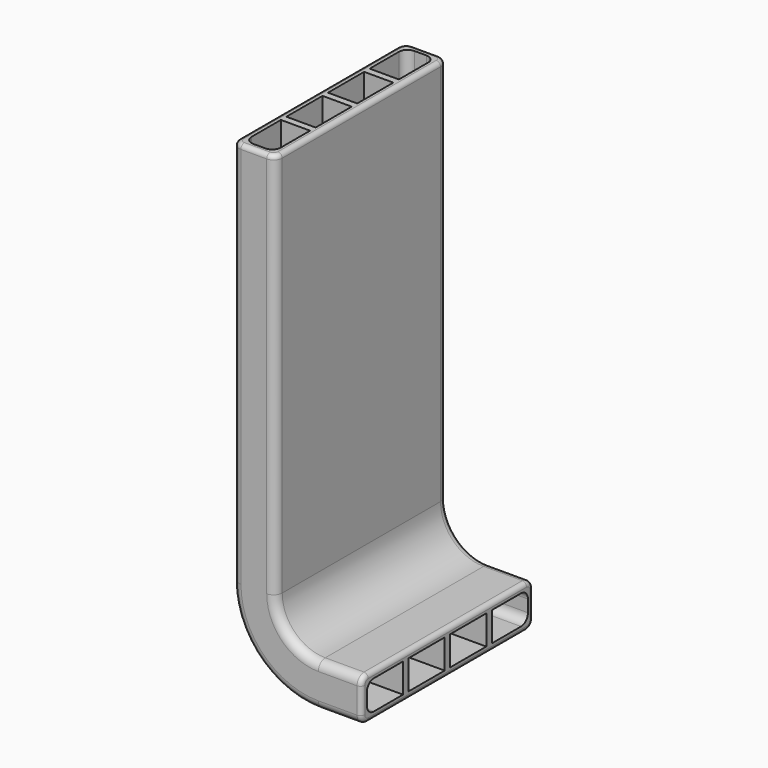
from build123d import *

# Parameters (mm, degrees)
SKETCH_W    = 50
SKETCH_H    = 10
SKETCH_W_2  = 10.5
SKETCH_H_2  = 6.8
FILLET_R    = 2
FILLET001_R = 2
FILLET002_R = 2
FILLET003_R = 2
FILLET004_R = 1
FILLET005_R = 1


with BuildPart() as part:
    # AdditivePipe: sweep along a path in Sketch001
    with BuildLine(Plane.XZ) as additivepipe_path:
        Line((0, 0), (-10, 0))
        ThreePointArc((-10, 0), (-24.142136, 5.857864), (-30, 20))
        Line((-30, 20), (-30, 110))
    # Sketch → AdditivePipe (sweep)
    with BuildSketch(Plane.YZ):
        with Locations((0, 5)):
            Rectangle(SKETCH_W, SKETCH_H)
        with Locations((-18.15, 5)):
            Rectangle(SKETCH_W_2, SKETCH_H_2, mode=Mode.SUBTRACT)
        with Locations((-6.05, 5)):
            Rectangle(SKETCH_W_2, SKETCH_H_2, mode=Mode.SUBTRACT)
        with Locations((6.05, 5)):
            Rectangle(SKETCH_W_2, SKETCH_H_2, mode=Mode.SUBTRACT)
        with Locations((18.15, 5)):
            Rectangle(SKETCH_W_2, SKETCH_H_2, mode=Mode.SUBTRACT)
    sweep(path=additivepipe_path.line)

    # Fillet
    fillet_edges = [part.edges().sort_by_distance(p)[0] for p in [
        (-20, -25, 65),
        (-17.071068, -25, 12.928932),
        (-5, -25, 10),
        (-20, 25, 65),
        (-17.071068, 25, 12.928932),
        (-5, 25, 10),
    ]]
    fillet(fillet_edges, radius=FILLET_R)

    # Fillet001
    fillet001_edges = [part.edges().sort_by_distance(p)[0] for p in [
        (-5, 25, 0),
        (-24.142136, 25, 5.857864),
        (-30, 25, 65),
        (-30, -25, 65),
        (-24.142136, -25, 5.857864),
        (-5, -25, 0),
    ]]
    fillet(fillet001_edges, radius=FILLET001_R)

    # Fillet002
    fillet002_edges = [part.edges().sort_by_distance(p)[0] for p in [
        (-28.4, -23.4, 65),
        (-21.6, -23.4, 65),
        (-23.010765, -23.4, 6.989235),
        (-18.202439, -23.4, 11.797561),
        (-5, -23.4, 8.4),
        (-5, -23.4, 1.6),
    ]]
    fillet(fillet002_edges, radius=FILLET002_R)

    # Fillet003
    fillet003_edges = [part.edges().sort_by_distance(p)[0] for p in [
        (-28.4, 23.4, 65),
        (-21.6, 23.4, 65),
        (-23.010765, 23.4, 6.989235),
        (-18.202439, 23.4, 11.797561),
        (-5, 23.4, 8.4),
        (-5, 23.4, 1.6),
    ]]
    fillet(fillet003_edges, radius=FILLET003_R)

    # Fillet004
    fillet004_edges = [part.edges().sort_by_distance(p)[0] for p in [
        (0, 0, 10),
        (0, -24.414214, 9.414214),
        (0, -25, 5),
        (0, -24.414214, 0.585786),
        (0, 0, 0),
        (0, 24.414214, 0.585786),
        (0, 25, 5),
        (0, 24.414214, 9.414214),
    ]]
    fillet(fillet004_edges, radius=FILLET004_R)

    # Fillet005
    fillet005_edges = [part.edges().sort_by_distance(p)[0] for p in [
        (-20, 0, 110),
        (-20.585786, -24.414214, 110),
        (-25, -25, 110),
        (-29.414214, -24.414214, 110),
        (-30, 0, 110),
        (-29.414214, 24.414214, 110),
        (-25, 25, 110),
        (-20.585786, 24.414214, 110),
    ]]
    fillet(fillet005_edges, radius=FILLET005_R)


solid = part.part
